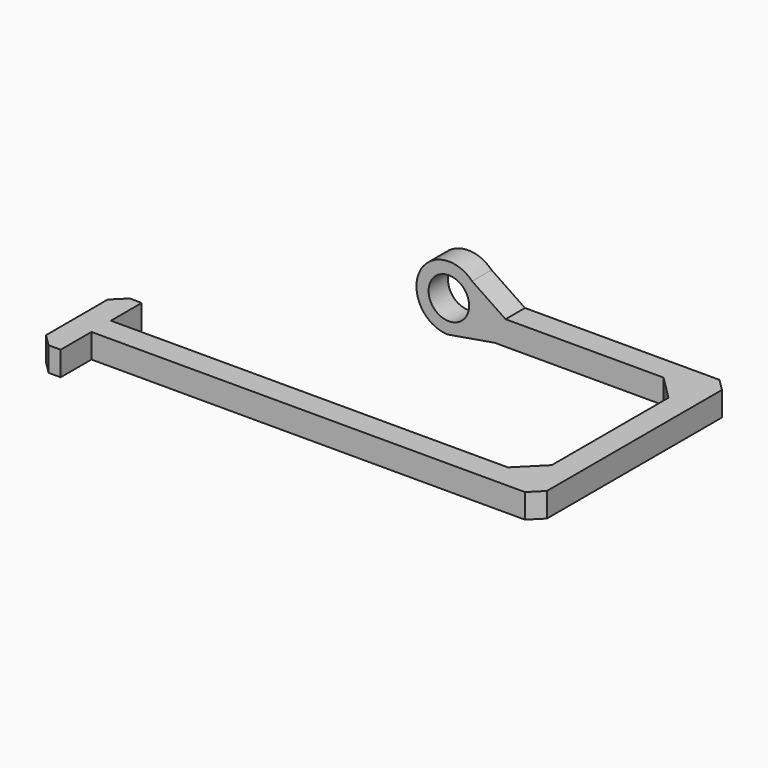
from build123d import *

# Parameters (mm, degrees)
PAD_DEPTH           = 6
CYLINDER001_R       = 5
CYLINDER001_DEPTH   = 6
CYLINDER_R          = 8
CYLINDER_DEPTH      = 6
CUT_PLACEMENT_ANGLE = 90
CHAMFER_SIZE        = 6
CHAMFER001_SIZE     = 6
CHAMFER002_SIZE     = 6
CHAMFER003_SIZE     = 6
CHAMFER004_SIZE     = 3
CHAMFER005_SIZE     = 3
CHAMFER006_SIZE     = 3
CHAMFER007_SIZE     = 3


with BuildPart() as pad:
    # Sketch → Pad (new body)
    with BuildSketch(Plane.XY):
        Polygon((8, 3), (68, 3), (68, -57), (-42, -57), (-42, -66.5), (-48, -66.5), (-48, -41.5), (-42, -41.5), (-42, -51), (62, -51), (62, -3), (8, -3), align=None)
    extrude(amount=PAD_DEPTH)


with BuildPart() as cilindro001:
    # Cylinder001 → Cylinder001 (new body)
    with BuildSketch(Plane(origin=(3, 3, 0), x_dir=(1, 0, 0), z_dir=(0, 0, 1))):
        Circle(CYLINDER001_R)
    extrude(amount=CYLINDER001_DEPTH)


with BuildPart() as chamfer007:
    # Cylinder → Cylinder (new body)
    with BuildSketch(Plane(origin=(3, 3, 0), x_dir=(1, 0, 0), z_dir=(0, 0, 1))):
        Circle(CYLINDER_R)
    extrude(amount=CYLINDER_DEPTH)

    # Cut: cut Cilindro001
    add(cilindro001.part, mode=Mode.SUBTRACT)


with BuildPart() as chamfer007_1:
    # Cut placement: moved
    add(chamfer007.part.moved(Location((0, 3, 3))).rotate(Axis((0, 3, 3), (1, 0, 0)), CUT_PLACEMENT_ANGLE))

    # Fusion: union Pad
    add(pad.part)

    # Chamfer
    chamfer_edges = [chamfer007_1.edges().sort_by_distance(p)[0] for p in [
        (11, 0, 6),
    ]]
    chamfer(chamfer_edges, length=CHAMFER_SIZE)

    # Chamfer001
    chamfer001_edges = [chamfer007_1.edges().sort_by_distance(p)[0] for p in [
        (8.291503, 0, 0),
    ]]
    chamfer(chamfer001_edges, length=CHAMFER001_SIZE)

    # Chamfer002
    chamfer002_edges = [chamfer007_1.edges().sort_by_distance(p)[0] for p in [
        (62, -51, 3),
    ]]
    chamfer(chamfer002_edges, length=CHAMFER002_SIZE)

    # Chamfer003
    chamfer003_edges = [chamfer007_1.edges().sort_by_distance(p)[0] for p in [
        (62, -3, 3),
    ]]
    chamfer(chamfer003_edges, length=CHAMFER003_SIZE)

    # Chamfer004
    chamfer004_edges = [chamfer007_1.edges().sort_by_distance(p)[0] for p in [
        (68, 3, 3),
    ]]
    chamfer(chamfer004_edges, length=CHAMFER004_SIZE)

    # Chamfer005
    chamfer005_edges = [chamfer007_1.edges().sort_by_distance(p)[0] for p in [
        (68, -57, 3),
    ]]
    chamfer(chamfer005_edges, length=CHAMFER005_SIZE)

    # Chamfer006
    chamfer006_edges = [chamfer007_1.edges().sort_by_distance(p)[0] for p in [
        (-48, -66.5, 3),
    ]]
    chamfer(chamfer006_edges, length=CHAMFER006_SIZE)

    # Chamfer007
    chamfer007_edges = [chamfer007_1.edges().sort_by_distance(p)[0] for p in [
        (-48, -41.5, 3),
    ]]
    chamfer(chamfer007_edges, length=CHAMFER007_SIZE)


solid = chamfer007_1.part
